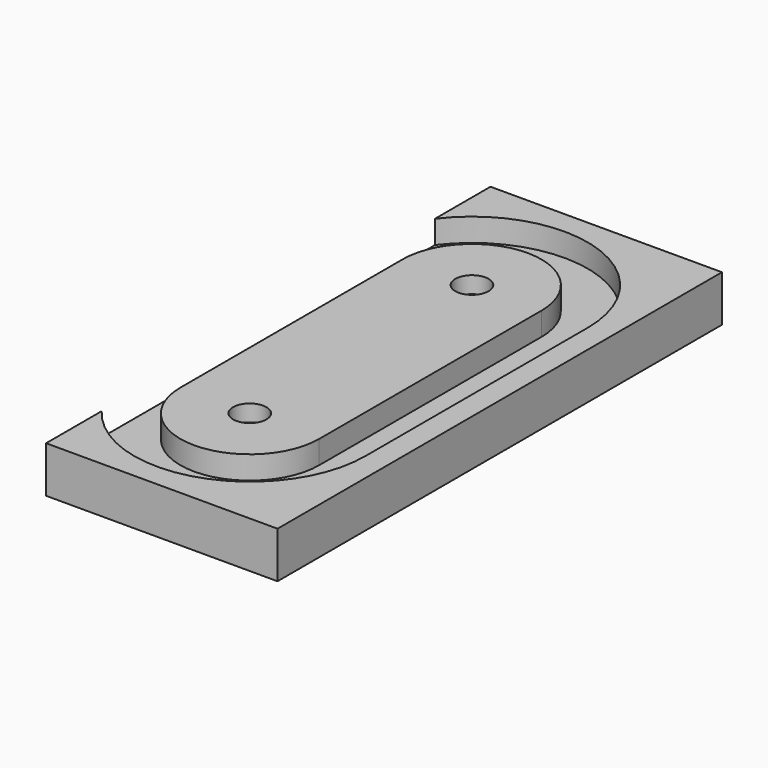
from build123d import *

# Parameters (mm, degrees)
SKETCH_W        = 25
SKETCH_H        = 60
PAD_DEPTH       = 5
POCKET_DEPTH    = 2.5
SKETCH002_R     = 1.8
POCKET001_DEPTH = 1.8


with BuildPart() as part:
    # Sketch → Pad (new body)
    with BuildSketch(Plane.XY):
        with Locations((17.5, 30)):
            Rectangle(SKETCH_W, SKETCH_H)
    extrude(amount=PAD_DEPTH)

    # Sketch001 → Pocket (cut)
    with BuildSketch(Plane.XY.offset(5)):
        with BuildLine():
            ThreePointArc((27.5, 45.004765), (15, 57.504765), (2.5, 45.004764))
            Line((2.5, 45.004764), (2.5, 15.004765))
            ThreePointArc((2.5, 15.004765), (15, 2.504765), (27.5, 15.004765))
            Line((27.5, 15.004765), (27.5, 45.004765))
        make_face()
        with BuildLine():
            ThreePointArc((22.5, 45.004765), (15, 52.504765), (7.5, 45.004765))
            Line((7.5, 45.004765), (7.5, 15.004765))
            ThreePointArc((7.5, 15.004765), (15, 7.504765), (22.5, 15.004765))
            Line((22.5, 45.004765), (22.5, 15.004765))
        make_face(mode=Mode.SUBTRACT)
    extrude(amount=-POCKET_DEPTH, mode=Mode.SUBTRACT)

    # Sketch002 → Pocket001 (cut)
    with BuildSketch(Plane.XY.offset(5)):
        with Locations((15, 45)):
            Circle(SKETCH002_R)
        with Locations((15, 15)):
            Circle(SKETCH002_R)
    extrude(amount=-POCKET001_DEPTH, mode=Mode.SUBTRACT)


solid = part.part
